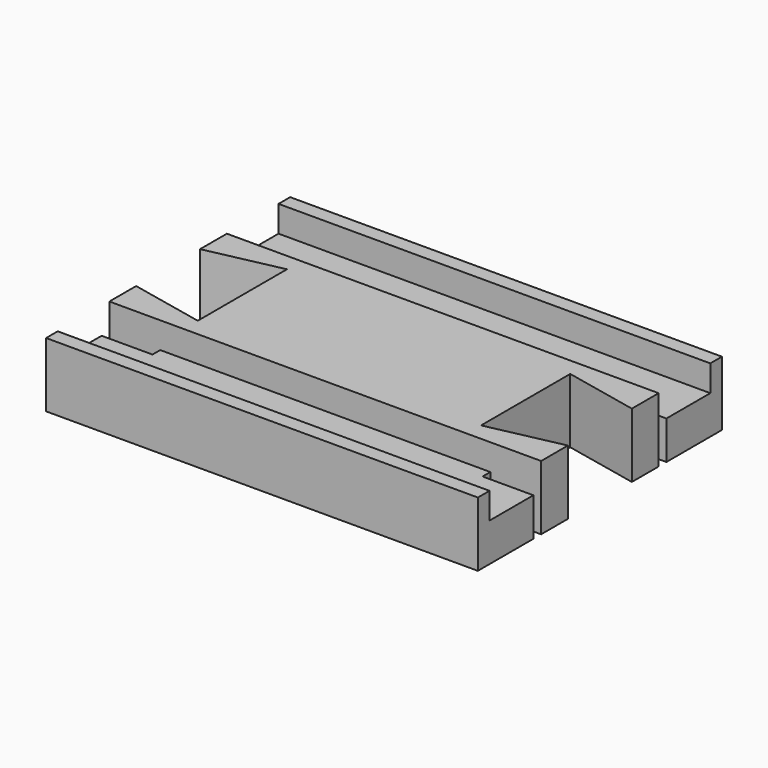
from build123d import *

# Parameters (mm, degrees)
F0_W      = 53.5
F0_H      = 37.8
F1_DEPTH  = 8
F2_W      = 53.5
F2_H      = 8
F3_DEPTH  = 3.25
F4_W      = 9.9
F4_H      = 8
F5_DEPTH  = 9.2
F5_TAPER  = -12
F6_W      = 9.9
F6_H      = 8
F7_DEPTH  = 9.2
F7_TAPER  = -12
F9_W      = 6.3
F9_H      = 1.2
F8_W      = 6.3
F8_H      = 1.2
F10_DEPTH = 4.75


with BuildPart() as f1:
    # F0 (on Top) → F1 (new body)
    with BuildSketch(Plane.XY):
        Rectangle(F0_W, F0_H)
    extrude(amount=F1_DEPTH)

    # F2 (on face) → F3 (cut)
    with BuildSketch(Plane.XY.offset(8)):
        with Locations((0, -13.1)):
            Rectangle(F2_W, F2_H)
        with Locations((0, 13.1)):
            Rectangle(F2_W, F2_H)
    extrude(amount=-F3_DEPTH, mode=Mode.SUBTRACT)

    # F4 (on face) → F5 (cut)
    with BuildSketch(Plane(origin=(-26.75, 0, 0), x_dir=(0, -1, 0), z_dir=(-1, 0, 0))):
        with Locations((0, 4)):
            Rectangle(F4_W, F4_H)
    extrude(amount=-F5_DEPTH, taper=F5_TAPER, mode=Mode.SUBTRACT)

    # F6 (on face) → F7 (cut)
    with BuildSketch(Plane.YZ.offset(26.75)):
        with Locations((0, 4)):
            Rectangle(F6_W, F6_H)
    extrude(amount=-F7_DEPTH, taper=F7_TAPER, mode=Mode.SUBTRACT)

    # F9 (on face) + F8 (on face) → F10 (cut)
    with BuildSketch(Plane.XY.offset(4.75)):
        with Locations((23.6, 9.7)):
            Rectangle(F9_W, F9_H)
        with Locations((-23.6, 9.7)):
            Rectangle(F9_W, F9_H)
    with BuildSketch(Plane.XY.offset(4.75)):
        with Locations((-23.6, -9.7)):
            Rectangle(F8_W, F8_H)
        with Locations((23.6, -9.7)):
            Rectangle(F8_W, F8_H)
    extrude(amount=-F10_DEPTH, mode=Mode.SUBTRACT)


solid = f1.part
